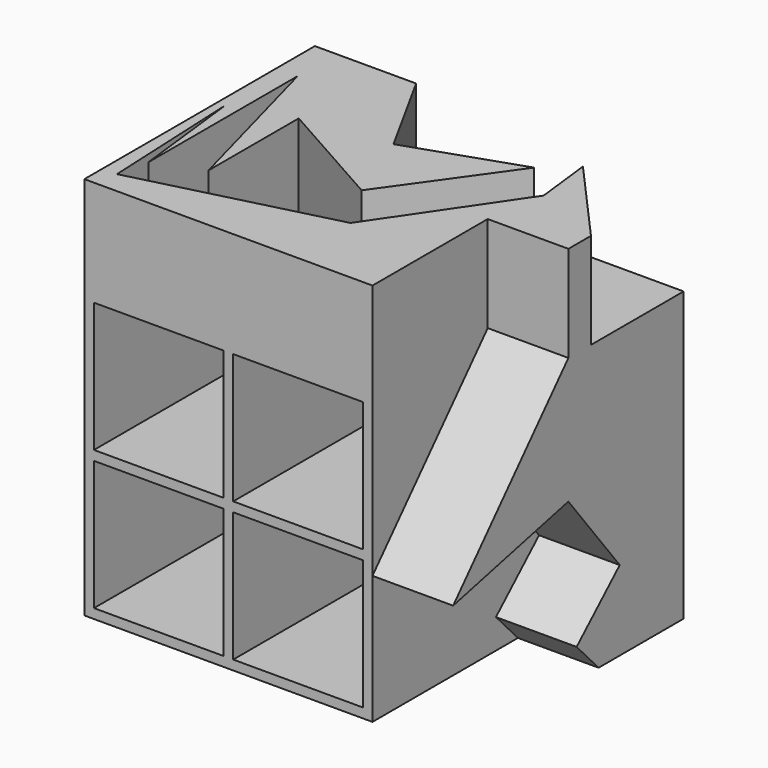
from build123d import *

# Parameters (mm, degrees)
F0_W     = 150
F0_H     = 150
F0_W_2   = 67.5
F0_H_2   = 67.5
F1_DEPTH = 150
F3_DEPTH = 42
F5_DEPTH = 50


with BuildPart() as f1:
    # F0 (on Front) → F1 (new body)
    with BuildSketch(Plane.XZ):
        with Locations((75, 75)):
            Rectangle(F0_W, F0_H)
        with Locations((38.75, 38.75)):
            Rectangle(F0_W_2, F0_H_2, mode=Mode.SUBTRACT)
        with Locations((111.25, 38.75)):
            Rectangle(F0_W_2, F0_H_2, mode=Mode.SUBTRACT)
        with Locations((38.75, 111.25)):
            Rectangle(F0_W_2, F0_H_2, mode=Mode.SUBTRACT)
        with Locations((111.25, 111.25)):
            Rectangle(F0_W_2, F0_H_2, mode=Mode.SUBTRACT)
    extrude(amount=F1_DEPTH)

    # F2 (on face) → F3 (join)
    with BuildSketch(Plane.YZ.offset(150)):
        Polygon((0, 150), (-75, 150), (-150, 66.9503435493), (-75.0411003828, 84.2106193304), (-41.5993146598, 41.4914414287), (-69.6472600102, 15.3852747753), (-55.3271184714, 0), (0, 0), align=None)
    extrude(amount=F3_DEPTH)

    # F4 (on face) → F5 (join)
    with BuildSketch(Plane.XY.offset(150)):
        Polygon((78.8858830929, -47.45561257), (52.7330078185, 0), (0, 0), (0, -150), (150, -150), (150, -75), (192, -75), (192, -60.3085644543), (151.335395945, -14.7103952784), (154.8433154821, -44.6645244956), (108.5957586765, -112.5511825085), (7.5965225697, -138.2962316275), (4.1573755443, -63.4704530239), (11.035669595, -122.2042143345), (11.035669595, -24.9770767987), (34.6234440804, -112.5511825085), (34.6234440804, -53.7799745798), (94.1806063056, -87.2614681721), (136.4469230175, -27.8326813132), align=None)
    extrude(amount=F5_DEPTH)


solid = f1.part
